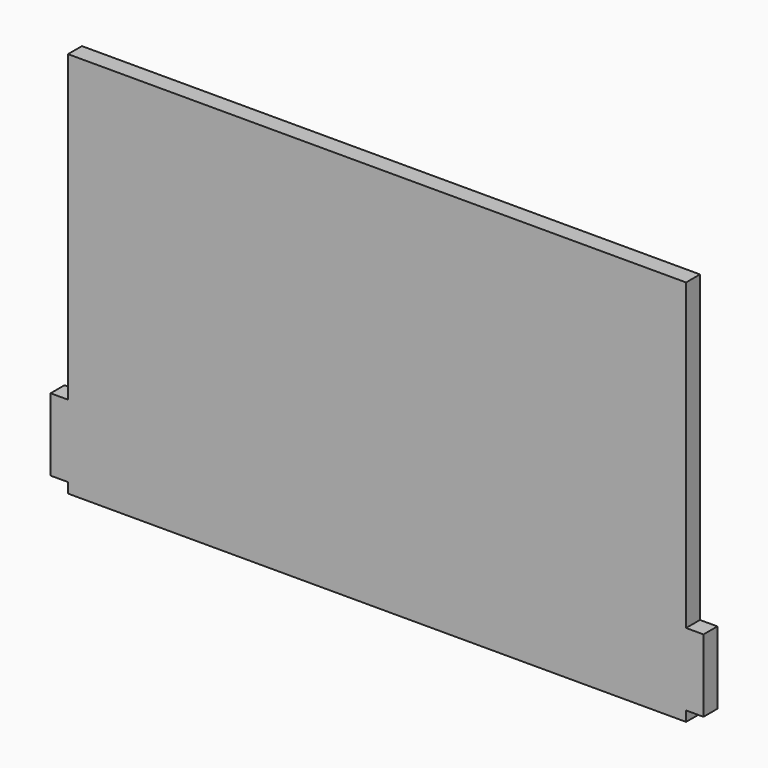
from build123d import *

# Parameters (mm, degrees)
F0_W     = 18.288
F0_H     = 76.2
F1_DEPTH = 18.288


with BuildPart() as f1:
    # F0 (on Front) → F1 (new body)
    with BuildSketch(Plane.XZ):
        Polygon((601.724416, 379.273323), (-47.499584, 379.273323), (-47.499584, 59.734055), (-47.499584, -16.465945), (-47.499584, -27.126677), (601.724416, -27.126677), (601.724416, -16.465945), (601.724416, 59.734055), align=None)
        Polygon((-47.499584, -16.465945), (-47.499584, 59.734055), (-65.787584, 59.734055), (-65.787584, 21.634055), (-65.787584, -5.497572), (-65.787584, -16.465945), align=None)
        with Locations((610.868416, 21.634055)):
            Rectangle(F0_W, F0_H)
    extrude(amount=F1_DEPTH)


solid = f1.part
